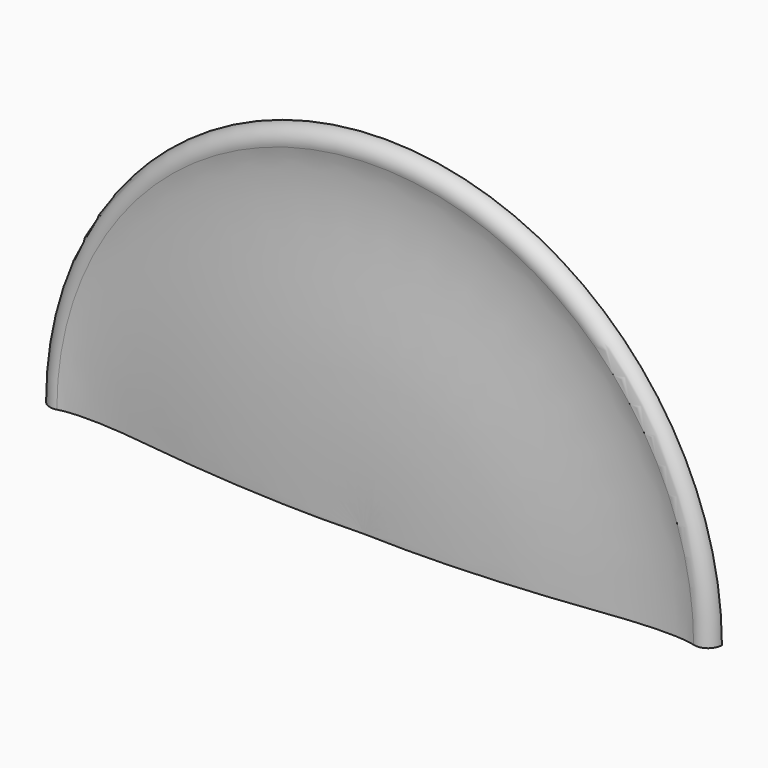
from build123d import *

# Parameters (mm, degrees)
F1_ANGLE = 180
F2_W     = 92.3085473478
F2_H     = 7.1881692857
F3_DEPTH = 36.3579636846


with BuildPart() as f1:
    # F0 (on Top) → F1 (revolve)
    with BuildSketch(Plane.XY):
        with BuildLine():
            Line((0, 3), (0, 0))
            Line((0, 0), (0, -3))
            add(Edge.make_bspline(
                [(0, -3), (5.567168006, -3.2219475626), (14.7611044979, -2.752381192), (21.5145717979, -2.0748290389), (31.7383084095, -0.6873246794), (34.4539290687, -1.4448401915)],
                knots=[0, 0, 0, 0, 0.3795468711, 0.6523695781, 1, 1, 1, 1], degree=3))
            ThreePointArc((34.4539290687, -1.4448401915), (35.7640049911, -1.1946865224), (36.3569635846, 0))
            ThreePointArc((36.3569635846, 0), (35.7640049911, 1.1946865224), (34.4539290687, 1.4448401915))
            add(Edge.make_bspline(
                [(0, 3), (5.567168006, 3.2219475626), (14.7611044979, 2.752381192), (21.5145717979, 2.0748290389), (31.7383084095, 0.6873246794), (34.4539290687, 1.4448401915)],
                knots=[0, 0, 0, 0, 0.3795468711, 0.6523695781, 1, 1, 1, 1], degree=3))
        make_face()
    revolve(axis=Axis((0, -1.5, 0), (0, -1, 0)), revolution_arc=F1_ANGLE)

    # F2 (on face) → F3 (cut, through all)
    with BuildSketch(Plane(origin=(0, 0, 0), x_dir=(1, 0, 0), z_dir=(0, 0, -1))):
        with Locations((6.5206307918, -3.5940846428)):
            Rectangle(F2_W, F2_H)
    extrude(amount=-F3_DEPTH, mode=Mode.SUBTRACT)


solid = f1.part
